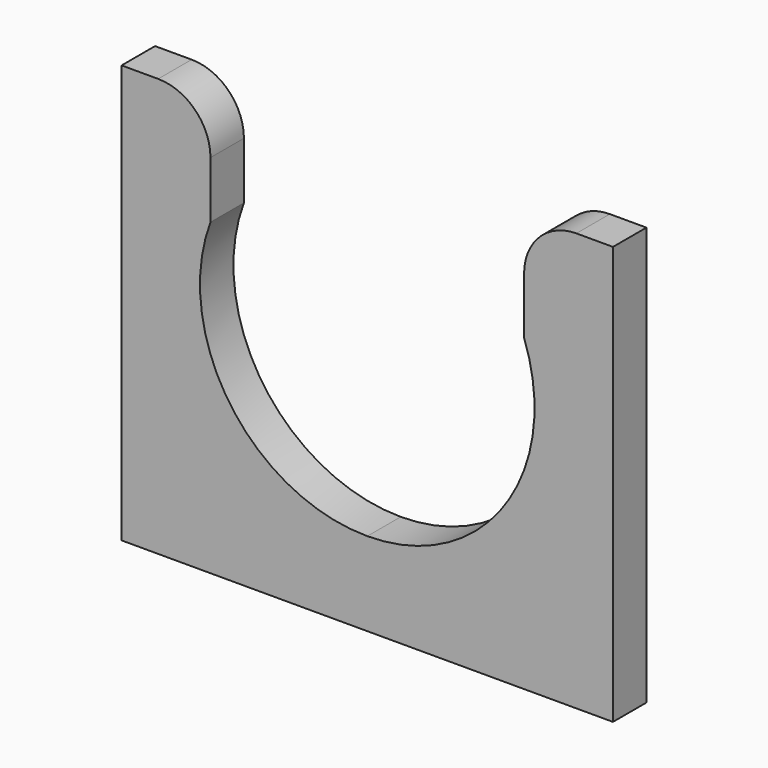
from build123d import *

# Parameters (mm, degrees)
F1_DEPTH = 4


with BuildPart() as f1:
    # F0 (on Front) → F1 (new body)
    with BuildSketch(Plane.XZ):
        with BuildLine():
            ThreePointArc((-15, 15), (-16.464466, 18.535534), (-20, 20))
            Line((-20, 20), (-23.5, 20))
            Line((-23.5, 20), (-23.5, -20))
            Line((-23.5, -20), (0, -20))
            Line((0, -20), (0, -12))
            ThreePointArc((0, -12), (-13.135529, -5.135529), (-15, 9.567764))
            Line((-15, 9.567764), (-15, 15))
        make_face()
        with BuildLine():
            Line((0, -12), (0, -20))
            Line((0, -20), (23.5, -20))
            Line((23.5, -20), (23.5, 20))
            Line((23.5, 20), (20, 20))
            ThreePointArc((20, 20), (16.464466, 18.535534), (15, 15))
            Line((15, 15), (15, 9.567764))
            ThreePointArc((15, 9.567764), (13.135529, -5.135529), (0, -12))
        make_face()
    extrude(amount=F1_DEPTH)


solid = f1.part
